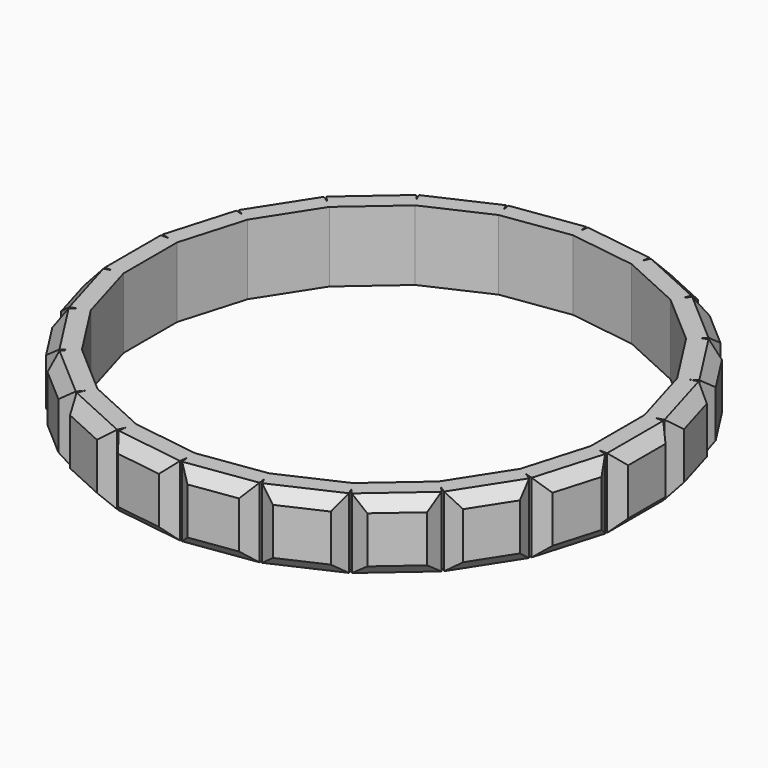
from build123d import *

# Parameters (mm, degrees)
SKETCH006_W           = 3
SKETCH006_H           = 3
PAD001_DEPTH          = 1.25
CHAMFER_SIZE          = 0.5
POLARPATTERN001_COUNT = 22


with BuildPart() as part:
    # Sketch006 → Pad001 (new body)
    with BuildSketch(Plane.YZ.offset(11.25)):
        with Locations((0, -4.5)):
            Rectangle(SKETCH006_W, SKETCH006_H)
    extrude(amount=-PAD001_DEPTH)

    # Chamfer
    chamfer_edges = [part.edges().sort_by_distance(p)[0] for p in [
        (11.25, 1.5, -4.5),
        (11.25, 0, -3),
        (11.25, -1.5, -4.5),
        (11.25, 0, -6),
    ]]
    chamfer(chamfer_edges, length=CHAMFER_SIZE)

    # PolarPattern001: part ×22 about axis
    polarpattern001_axis = Axis((0, 0, 0), (0, 0, 1))


with BuildPart() as part_1:
    add(part.part)
    for i in range(1, POLARPATTERN001_COUNT):
        add(part.part.rotate(polarpattern001_axis, i * 360 / POLARPATTERN001_COUNT))


solid = part_1.part
